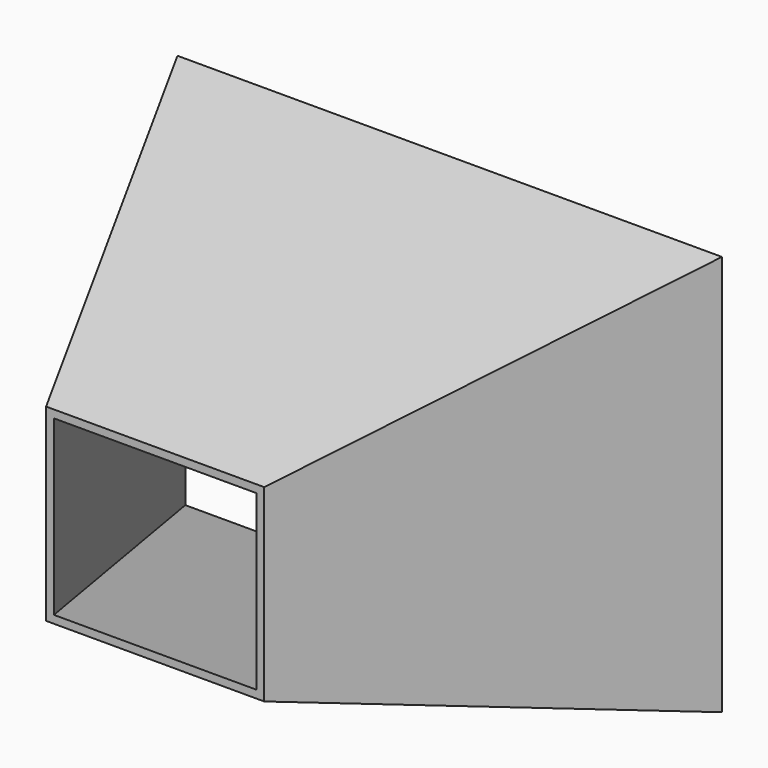
from build123d import *

# Parameters (mm, degrees)
F0_W = 120.396
F0_H = 104.14
F2_W = 300.482
F2_H = 221.234
F5_W = 291.846
F5_H = 212.598
F4_W = 111.76
F4_H = 95.504


with BuildPart() as f3:
    # F0 (on Front) → F3 section 0
    with BuildSketch(Plane.XZ):
        Rectangle(F0_W, F0_H)
    # F2 (on offset) → F3 section 1
    with BuildSketch(Plane.XZ.offset(-203.2)):
        Rectangle(F2_W, F2_H)
    loft()

    # F5 (on face) → F6 section 0
    with BuildSketch(Plane(origin=(0, 203.2, 0), x_dir=(-1, 0, 0), z_dir=(0, 1, 0))):
        Rectangle(F5_W, F5_H)
    # F4 (on face) → F6 section 1
    with BuildSketch(Plane.XZ):
        Rectangle(F4_W, F4_H)
    loft(mode=Mode.SUBTRACT)


solid = f3.part
